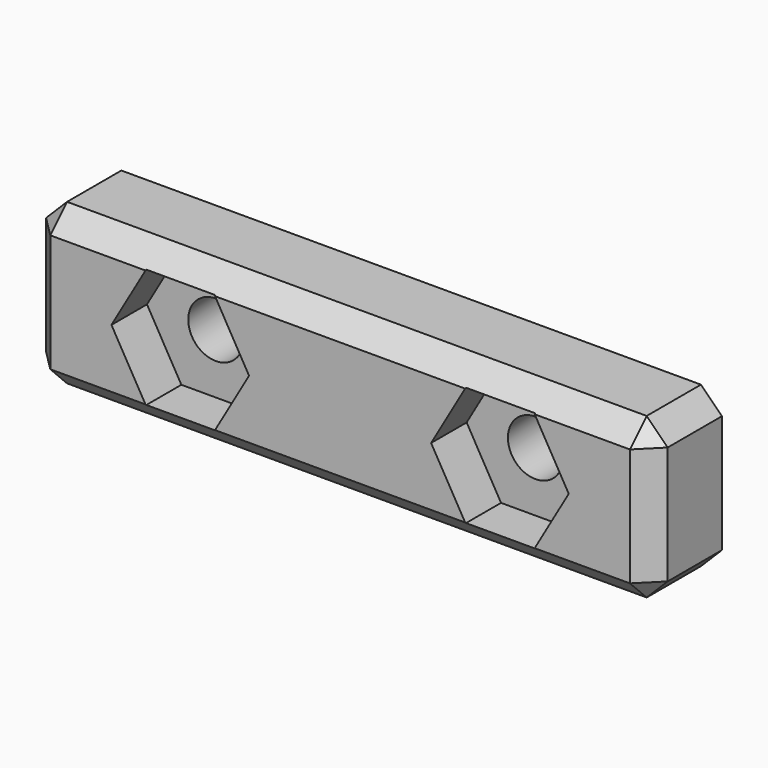
from build123d import *

# Parameters (mm, degrees)
F0_W     = 44.45
F0_H     = 11.43
F1_DEPTH = 6.35
F3_SIZE  = 1.5
F4_DEPTH = 3.175
F5_D     = 3.937
F5_DEPTH = 6.35


with BuildPart() as f1:
    # F0 (on Front) → F1 (new body)
    with BuildSketch(Plane.XZ):
        Rectangle(F0_W, F0_H)
    extrude(amount=-F1_DEPTH)

    # F3
    f3_edges = [f1.edges().sort_by_distance(p)[0] for p in [
        (0, 0, 5.715),
        (0, 0, -5.715),
        (22.225, 0, 0),
        (-22.225, 0, 0),
        (22.225, 3.175, -5.715),
        (22.225, 3.175, 5.715),
        (-22.225, 3.175, 5.715),
        (-22.225, 3.175, -5.715),
    ]]
    chamfer(f3_edges, length=F3_SIZE)

    # F2 (on face) → F4 (cut)
    with BuildSketch(Plane.XZ):
        Polygon((-13.890003, -4.26085), (-8.969997, -4.26085), (-6.509994, 0), (-8.969997, 4.26085), (-13.890003, 4.26085), (-16.350006, 0), align=None)
        Polygon((6.509994, 0), (8.969997, -4.26085), (13.890003, -4.26085), (16.350006, 0), (13.890003, 4.26085), (8.969997, 4.26085), align=None)
    extrude(amount=-F4_DEPTH, mode=Mode.SUBTRACT)

    # F5
    with Locations(Plane.XZ):
        with Locations((-11.43, 0), (11.43, 0)):
            Hole(F5_D / 2, depth=F5_DEPTH)


solid = f1.part
